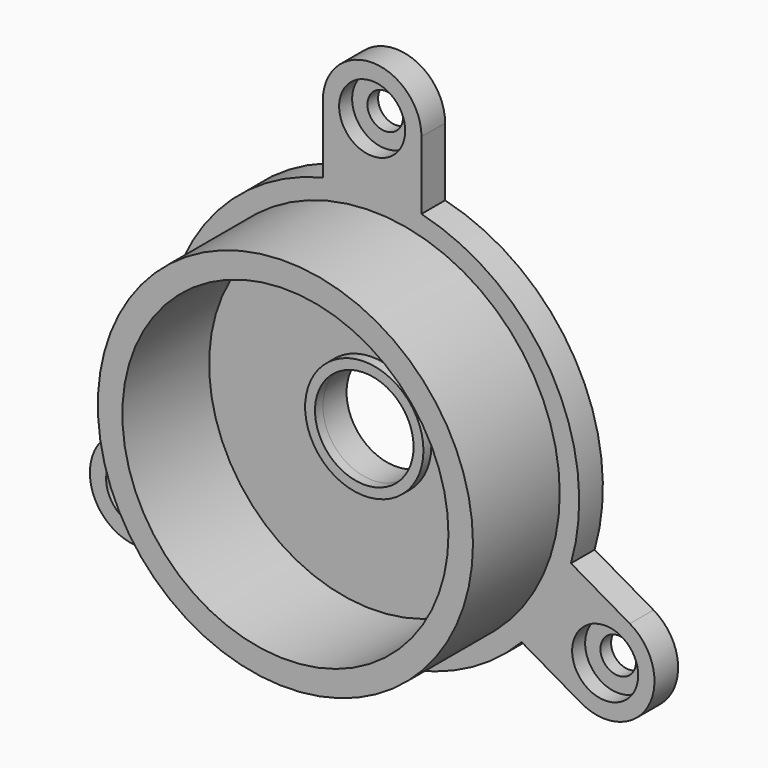
from build123d import *

# Parameters (mm, degrees)
F1_DEPTH  = 3
F2_R      = 19.0263418025
F2_R_2    = 16.5382084955
F3_DEPTH  = 11
F4_R      = 5
F5_DEPTH  = 3.001
F7_R      = 1.8
F8_DEPTH  = 3.001
F6_R      = 6
F6_R_2    = 5
F9_DEPTH  = 1
F10_R     = 3.35
F10_R_2   = 1.8
F11_DEPTH = 1.65
F12_R     = 3.35
F12_R_2   = 1.8
F13_DEPTH = 1.65


with BuildPart() as f1:
    # F0 (on Front) → F1 (new body)
    with BuildSketch(Plane.XZ):
        with BuildLine():
            Line((-5, 27.2899847478), (-5, 20.3960780544))
            ThreePointArc((-5, 20.3960780544), (-18.1865334795, 10.5), (-20.1635217327, -5.8679120083))
            Line((-20.1635217327, -5.8679120083), (-26.1338200605, -9.314865355))
            ThreePointArc((-26.1338200605, -9.314865355), (-27.9639470794, -16.1449923739), (-21.1338200605, -17.9751193928))
            Line((-21.1338200605, -17.9751193928), (-15.1635217327, -14.5281660461))
            ThreePointArc((-15.1635217327, -14.5281660461), (0, -21), (15.1635217327, -14.5281660461))
            Line((15.1635217327, -14.5281660461), (21.1338200605, -17.9751193928))
            ThreePointArc((21.1338200605, -17.9751193928), (27.9639470794, -16.1449923739), (26.1338200605, -9.314865355))
            Line((26.1338200605, -9.314865355), (20.1635217327, -5.8679120083))
            ThreePointArc((20.1635217327, -5.8679120083), (18.1865334795, 10.5), (5, 20.3960780544))
            Line((5, 20.3960780544), (5, 27.2899847478))
            ThreePointArc((5, 27.2899847478), (0, 32.2899847478), (-5, 27.2899847478))
        make_face()
    extrude(amount=F1_DEPTH)

    # F2 (on face) → F3 (join)
    with BuildSketch(Plane.XZ.offset(3)):
        Circle(F2_R)
        Circle(F2_R_2, mode=Mode.SUBTRACT)
    extrude(amount=F3_DEPTH)

    # F4 (on face) → F5 (cut, through all)
    with BuildSketch(Plane.XZ.offset(3)):
        Circle(F4_R)
    extrude(amount=-F5_DEPTH, mode=Mode.SUBTRACT)

    # F7 (on face) → F8 (cut, through all)
    with BuildSketch(Plane.XZ.offset(3)):
        with Locations((-23.6338200605, -13.6449923739)):
            Circle(F7_R)
        with Locations((23.6338200605, -13.6449923739)):
            Circle(F7_R)
        with Locations((0, 27.2899847478)):
            Circle(F7_R)
    extrude(amount=-F8_DEPTH, mode=Mode.SUBTRACT)

    # F6 (on face) → F9 (join)
    with BuildSketch(Plane.XZ.offset(3)):
        Circle(F6_R)
        Circle(F6_R_2, mode=Mode.SUBTRACT)
    extrude(amount=F9_DEPTH)

    # F10 (on face) → F11 (cut)
    with BuildSketch(Plane.XZ.offset(3)):
        with Locations((0, 27.2899847478)):
            Circle(F10_R)
        with Locations((0, 27.2899847478)):
            Circle(F10_R_2, mode=Mode.SUBTRACT)
    extrude(amount=-F11_DEPTH, mode=Mode.SUBTRACT)

    # F12 (on face) → F13 (cut)
    with BuildSketch(Plane.XZ.offset(3)):
        with Locations((23.6338200605, -13.6449923739)):
            Circle(F12_R)
        with Locations((23.6338200605, -13.6449923739)):
            Circle(F12_R_2, mode=Mode.SUBTRACT)
        with Locations((-23.6338200605, -13.6449923739)):
            Circle(F12_R)
        with Locations((-23.6338200605, -13.6449923739)):
            Circle(F12_R_2, mode=Mode.SUBTRACT)
    extrude(amount=-F13_DEPTH, mode=Mode.SUBTRACT)


solid = f1.part
